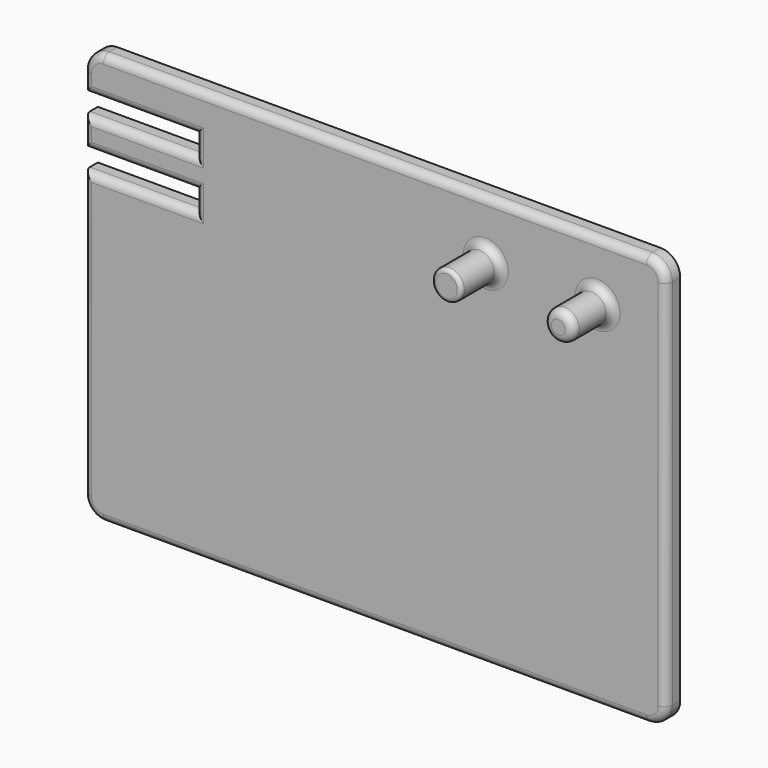
from build123d import *

# Parameters (mm, degrees)
F1_DEPTH = 9
F2_R     = 7.5
F3_DEPTH = 25
F4_W     = 57
F4_H     = 10
F5_DEPTH = 25
F6_R     = 2
F7_R     = 4
F8_R     = 4


with BuildPart() as f1:
    # F0 (on Front) → F1 (new body)
    with BuildSketch(Plane.XZ):
        with BuildLine():
            Line((231.2582800984, 190.805722177), (-45.7417199016, 190.805722177))
            ThreePointArc((-45.7417199016, 190.805722177), (-52.8127877134, 187.8767899889), (-55.7417199016, 180.805722177))
            Line((-55.7417199016, 180.805722177), (-55.7417199016, -9.194277823))
            ThreePointArc((-55.7417199016, -9.194277823), (-52.8127877134, -16.2653456348), (-45.7417199016, -19.194277823))
            Line((-45.7417199016, -19.194277823), (231.2582800984, -19.194277823))
            ThreePointArc((231.2582800984, -19.194277823), (238.3293479103, -16.2653456348), (241.2582800984, -9.194277823))
            Line((241.2582800984, -9.194277823), (241.2582800984, 180.805722177))
            ThreePointArc((241.2582800984, 180.805722177), (238.3293479103, 187.8767899889), (231.2582800984, 190.805722177))
        make_face()
    extrude(amount=F1_DEPTH)

    # F2 (on face) → F3 (join)
    with BuildSketch(Plane.XZ.offset(9)):
        with Locations((149.2582800984, 160.805722177)):
            Circle(F2_R)
        with Locations((206.2582800984, 160.805722177)):
            Circle(F2_R)
    extrude(amount=F3_DEPTH)

    # F4 (on face) → F5 (cut)
    with BuildSketch(Plane.XZ.offset(9)):
        with Locations((-27.2417199016, 165.805722177)):
            Rectangle(F4_W, F4_H)
        with Locations((-27.2417199016, 140.805722177)):
            Rectangle(F4_W, F4_H)
    extrude(amount=-F5_DEPTH, mode=Mode.SUBTRACT)

    # F6
    f6_edges = [f1.edges().sort_by_distance(p)[0] for p in [
        (141.75828, -34, 160.805722),
    ]]
    fillet(f6_edges, radius=F6_R)

    # F7
    f7_edges = [f1.edges().sort_by_distance(p)[0] for p in [
        (198.75828, -34, 160.805722),
    ]]
    fillet(f7_edges, radius=F7_R)

    # F8
    f8_edges = [f1.edges().sort_by_distance(p)[0] for p in [
        (143.75828, -34, 160.805722),
        (141.75828, -32, 160.805722),
        (238.329348, -9, 187.87679),
        (241.25828, -9, 85.805722),
        (238.329348, -9, -16.265346),
        (92.75828, -9, -19.194278),
        (-52.812788, -9, -16.265346),
        (-55.74172, -9, 63.305722),
        (-27.24172, -9, 135.805722),
        (1.25828, -9, 140.805722),
        (-27.24172, -9, 145.805722),
        (-55.74172, -9, 153.305722),
        (-27.24172, -9, 160.805722),
        (1.25828, -9, 165.805722),
        (-27.24172, -9, 170.805722),
        (-55.74172, -9, 175.805722),
        (-52.812788, -9, 187.87679),
        (92.75828, -9, 190.805722),
        (141.75828, -9, 160.805722),
        (198.75828, -9, 160.805722),
    ]]
    fillet(f8_edges, radius=F8_R)


solid = f1.part
